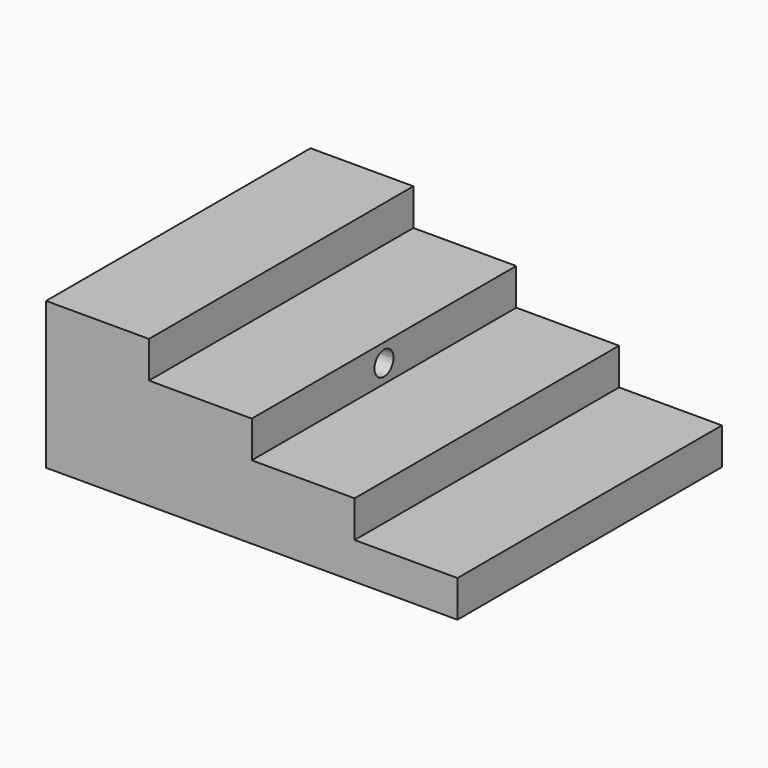
from build123d import *

# Parameters (mm, degrees)
F0_W     = 2240
F0_H     = 1800
F1_DEPTH = 200
F2_W     = 1680
F2_H     = 1800
F3_DEPTH = 200
F4_W     = 1120
F4_H     = 1800
F5_DEPTH = 200
F6_W     = 560
F6_H     = 1800
F7_DEPTH = 200
F9_DEPTH = 1120


with BuildPart() as f1:
    # F0 (on Top) → F1 (new body)
    with BuildSketch(Plane.XY):
        Rectangle(F0_W, F0_H)
    extrude(amount=F1_DEPTH)

    # F2 (on face) → F3 (join)
    with BuildSketch(Plane.XY.offset(200)):
        with Locations((-280, 0)):
            Rectangle(F2_W, F2_H)
    extrude(amount=F3_DEPTH)

    # F4 (on face) → F5 (join)
    with BuildSketch(Plane.XY.offset(400)):
        with Locations((-560, 0)):
            Rectangle(F4_W, F4_H)
    extrude(amount=F5_DEPTH)

    # F6 (on face) → F7 (join)
    with BuildSketch(Plane.XY.offset(600)):
        with Locations((-840, 0)):
            Rectangle(F6_W, F6_H)
    extrude(amount=F7_DEPTH)

    # F8 (on face) → F9 (cut)
    with BuildSketch(Plane.YZ):
        with BuildLine():
            ThreePointArc((65, 500), (45.961941, 545.961941), (0, 565))
            Line((0, 565), (0, 500))
            Line((0, 500), (65, 500))
        make_face()
        with BuildLine():
            Line((0, 500), (0, 565))
            ThreePointArc((0, 565), (-45.961941, 454.038059), (65, 500))
            Line((65, 500), (0, 500))
        make_face()
    extrude(amount=-F9_DEPTH, mode=Mode.SUBTRACT)


solid = f1.part
